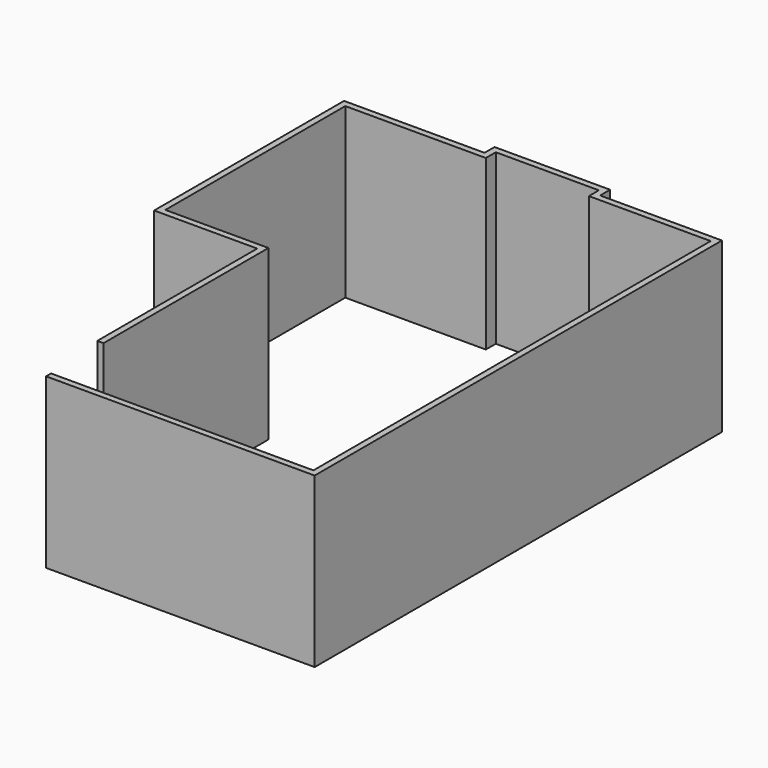
from build123d import *

# Parameters (mm, degrees)
F1_DEPTH = 2743.2


with BuildPart() as f1:
    # F0 (on Top) → F1 (new body)
    with BuildSketch(Plane.XY):
        Polygon((-1447.8, 381), (-3124.2, 381), (-3124.2, 4038.6), (-838.2, 4038.6), (-838.2, 4241.8), (838.2, 4241.8), (838.2, 4038.6), (2819.4, 4038.6), (2819.4, -4038.6), (-1447.8, -4038.6), (-1447.8, -4140.2), (2921, -4140.2), (2921, 4140.2), (939.8, 4140.2), (939.8, 4343.4), (-939.8, 4343.4), (-939.8, 4140.2), (-3225.8, 4140.2), (-3225.8, 279.4), (-1549.4, 279.4), (-1549.4, -2971.8), (-1447.8, -2971.8), align=None)
    extrude(amount=F1_DEPTH)


solid = f1.part
